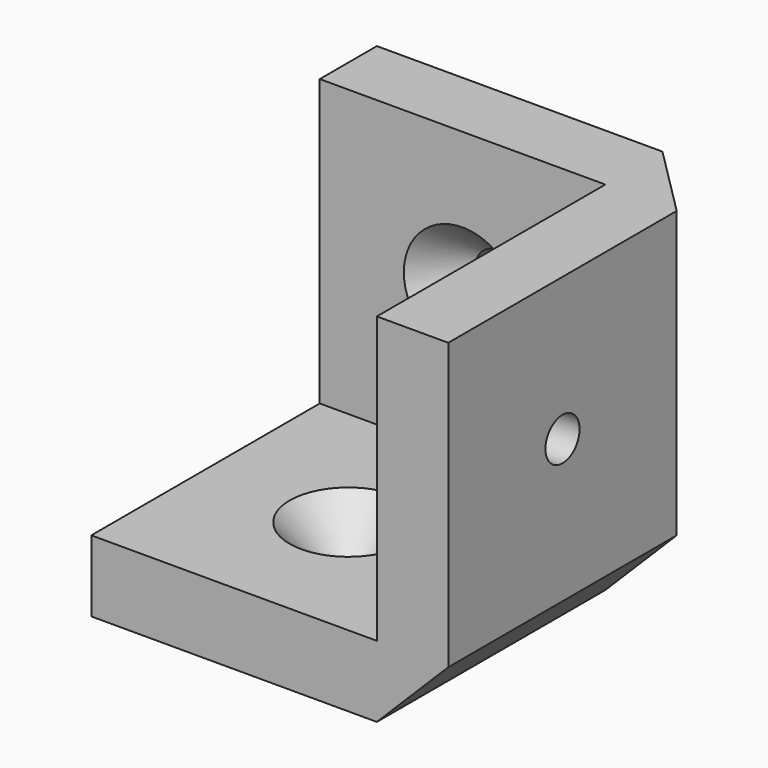
from build123d import *

# Parameters (mm, degrees)
F0_W                 = 25.4
F0_H                 = 25.4
F1_DEPTH             = 6.35
F2_W                 = 25.4
F2_H                 = 6.35
F3_DEPTH             = 6.35
F4_W                 = 25.4
F4_H                 = 6.35
F5_DEPTH             = 6.35
F9_D                 = 3.7973
F9_CSINK_D           = 10.4394
F9_CSINK_ANGLE       = 82
F9_ON_F6_D           = 3.7973
F9_ON_F6_CSINK_D     = 10.4394
F9_ON_F6_CSINK_ANGLE = 82
F9_ON_F8_D           = 3.7973
F9_ON_F8_CSINK_D     = 10.4394
F9_ON_F8_CSINK_ANGLE = 82
F10_SIZE             = 6.35


with BuildPart() as f1:
    # F0 (on Top) → F1 (new body)
    with BuildSketch(Plane.XY):
        Rectangle(F0_W, F0_H)
    extrude(amount=F1_DEPTH)

    # F2 (on face) → F3 (join)
    with BuildSketch(Plane.YZ.offset(12.7)):
        Polygon((12.7, 6.35), (12.7, 0), (19.05, 0), (19.05, 31.75), (-12.7, 31.75), (-12.7, 6.35), align=None)
        with Locations((0, 3.175)):
            Rectangle(F2_W, F2_H)
    extrude(amount=F3_DEPTH)

    # F4 (on face) → F5 (join)
    with BuildSketch(Plane(origin=(0, 12.7, 0), x_dir=(-1, 0, 0), z_dir=(0, 1, 0))):
        Polygon((-19.05, 0), (-12.7, 0), (-12.7, 6.35), (12.7, 6.35), (12.7, 31.75), (-19.05, 31.75), align=None)
        with Locations((0, 3.175)):
            Rectangle(F4_W, F4_H)
        Polygon((-19.05, 0), (-12.7, 0), (-12.7, 6.35), (12.7, 6.35), (12.7, 31.75), (-19.05, 31.75), align=None)
    extrude(amount=F5_DEPTH)

    # F9 (through all)
    with Locations(Plane(origin=(12.7, 0, 0), x_dir=(0, -1, 0), z_dir=(-1, 0, 0))):
        with Locations((0, 19.05)):
            CounterSinkHole(F9_D / 2, F9_CSINK_D / 2, counter_sink_angle=F9_CSINK_ANGLE)

    # F9 on F6 (through all)
    with Locations(Plane.XY.offset(6.35)):
        with Locations((0, 0)):
            CounterSinkHole(F9_ON_F6_D / 2, F9_ON_F6_CSINK_D / 2, counter_sink_angle=F9_ON_F6_CSINK_ANGLE)

    # F9 on F8 (through all)
    with Locations(Plane.XZ.offset(-12.7)):
        with Locations((0, 19.05)):
            CounterSinkHole(F9_ON_F8_D / 2, F9_ON_F8_CSINK_D / 2, counter_sink_angle=F9_ON_F8_CSINK_ANGLE)

    # F10
    f10_edges = [f1.edges().sort_by_distance(p)[0] for p in [
        (19.05, 19.05, 15.875),
        (19.05, 3.175, 0),
        (3.175, 19.05, 0),
    ]]
    chamfer(f10_edges, length=F10_SIZE)


solid = f1.part
